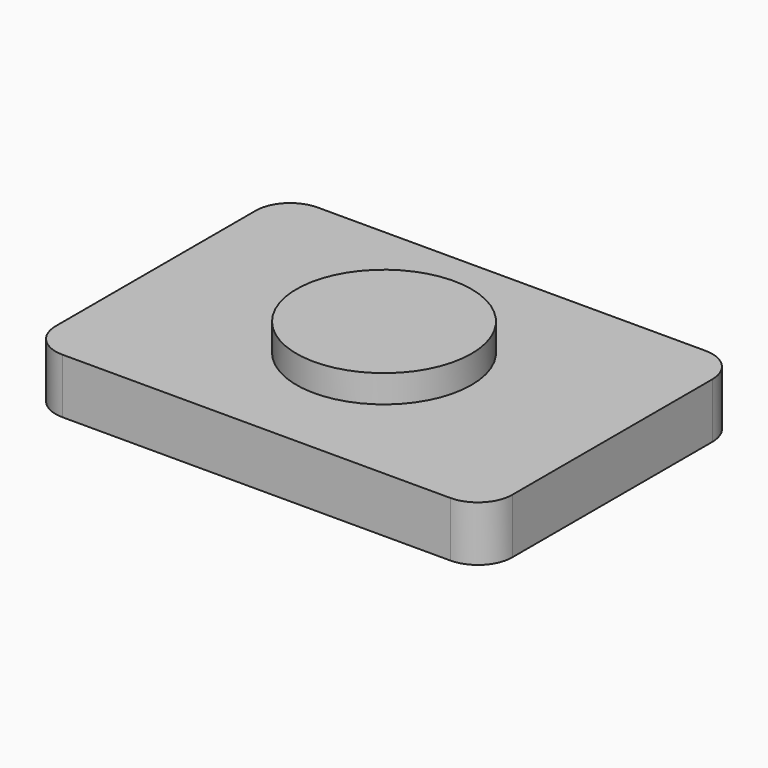
from build123d import *

# Parameters (mm, degrees)
F1_DEPTH = 5.08
F2_R     = 8.065723
F3_DEPTH = 2.54


with BuildPart() as f1:
    # F0 (on Top) → F1 (new body)
    with BuildSketch(Plane.XY):
        with BuildLine():
            ThreePointArc((21.05, 11.525), (20.120064, 13.770064), (17.875, 14.7))
            Line((17.875, 14.7), (-17.875, 14.7))
            ThreePointArc((-17.875, 14.7), (-20.120064, 13.770064), (-21.05, 11.525))
            Line((-21.05, 11.525), (-21.05, -11.525))
            ThreePointArc((-21.05, -11.525), (-20.120064, -13.770064), (-17.875, -14.7))
            Line((-17.875, -14.7), (17.875, -14.7))
            ThreePointArc((17.875, -14.7), (20.120064, -13.770064), (21.05, -11.525))
            Line((21.05, -11.525), (21.05, 11.525))
        make_face()
    extrude(amount=F1_DEPTH)

    # F2 (on face) → F3 (join)
    with BuildSketch(Plane.XY.offset(5.08)):
        Circle(F2_R)
    extrude(amount=F3_DEPTH)


solid = f1.part
